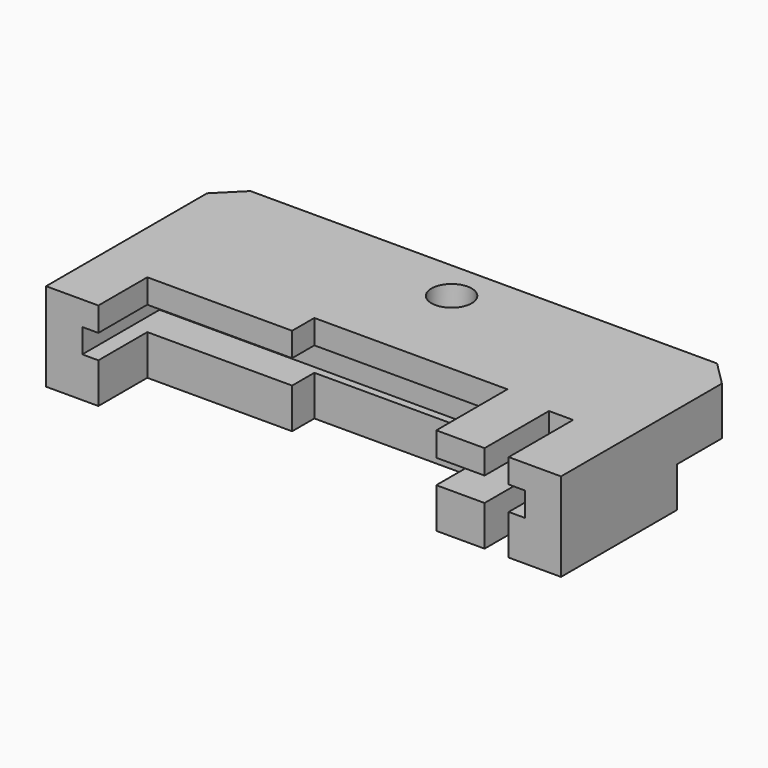
from build123d import *

# Parameters (mm, degrees)
SKETCH_R        = 2.5
PAD_DEPTH       = 11
SKETCH001_W     = 72.573656
SKETCH001_H     = 10
POCKET_DEPTH    = 5
POCKET001_DEPTH = 3.05
SKETCH003_W     = 55
SKETCH003_H     = 3
POCKET002_DEPTH = 12


with BuildPart() as part:
    # Sketch → Pad (new body)
    with BuildSketch(Plane.XY):
        Polygon((-32, -28), (-32, -3), (-29, 0), (29, 0), (32, -3), (32, -28), (25.5, -28), (25.5, -18), (22.5, -18), (22.5, -28), (16.5, -28), (16.5, -16.95), (-7.5, -16.95), (-7.5, -20.4), (-25.5, -20.4), (-25.5, -28), align=None)
        with Locations((0, -5)):
            Circle(SKETCH_R, mode=Mode.SUBTRACT)
    extrude(amount=PAD_DEPTH)

    # Sketch001 (on Face18 of Pad) → Pocket (cut)
    with BuildSketch(Plane(origin=(0, 0, 0), x_dir=(1, 0, 0), z_dir=(0, 0, -1))):
        with Locations((0, 5)):
            Rectangle(SKETCH001_W, SKETCH001_H)
    extrude(amount=-POCKET_DEPTH, mode=Mode.SUBTRACT)

    # Sketch002 (on Face4 of Pocket) → Pocket001 (cut)
    with BuildSketch(Plane(origin=(0, 0, 5), x_dir=(1, 0, 0), z_dir=(0, 0, -1))):
        Polygon((3.983717, 5), (1.991858, 8.45), (-1.991858, 8.45), (-3.983717, 5), (-1.991858, 1.55), (1.991858, 1.55), align=None)
    extrude(amount=-POCKET001_DEPTH, mode=Mode.SUBTRACT)

    # Sketch003 (on Face17 of Pocket001) → Pocket002 (cut)
    with BuildSketch(Plane.XZ.offset(28)):
        with Locations((0, 6.5)):
            Rectangle(SKETCH003_W, SKETCH003_H)
    extrude(amount=-POCKET002_DEPTH, mode=Mode.SUBTRACT)


solid = part.part
